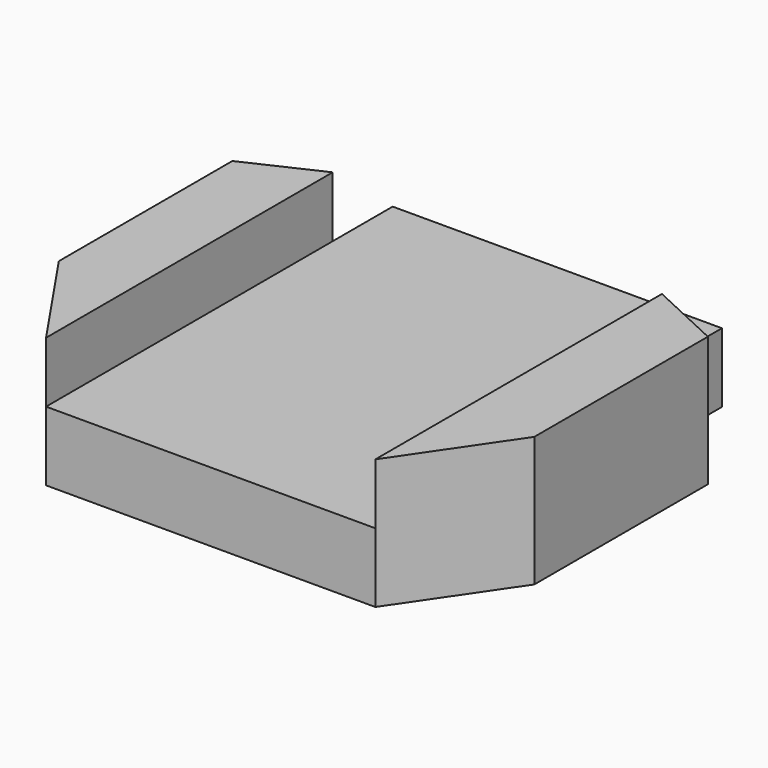
from build123d import *

# Parameters (mm, degrees)
F1_DEPTH = 8
F2_DEPTH = 15


with BuildPart() as f1:
    # F0 (on Top) → F1 (new body)
    with BuildSketch(Plane.XY):
        Polygon((-17.301764, 14.022763), (-55.301764, 14.022763), (-55.301764, 5.369977), (-55.301764, -35.977237), (-17.301764, -35.977237), (-17.301764, 5.369977), align=None)
    extrude(amount=F1_DEPTH)

    # F0 (on Top) → F2 (join)
    with BuildSketch(Plane.XY):
        Polygon((-8.860794, 1.444858), (-17.301764, 5.369977), (-17.301764, -35.977237), (-8.860794, -23.59469), align=None)
        Polygon((-55.301764, -35.977237), (-55.301764, 5.369977), (-63.742734, 1.444858), (-63.742734, -23.59469), align=None)
    extrude(amount=F2_DEPTH)


solid = f1.part
